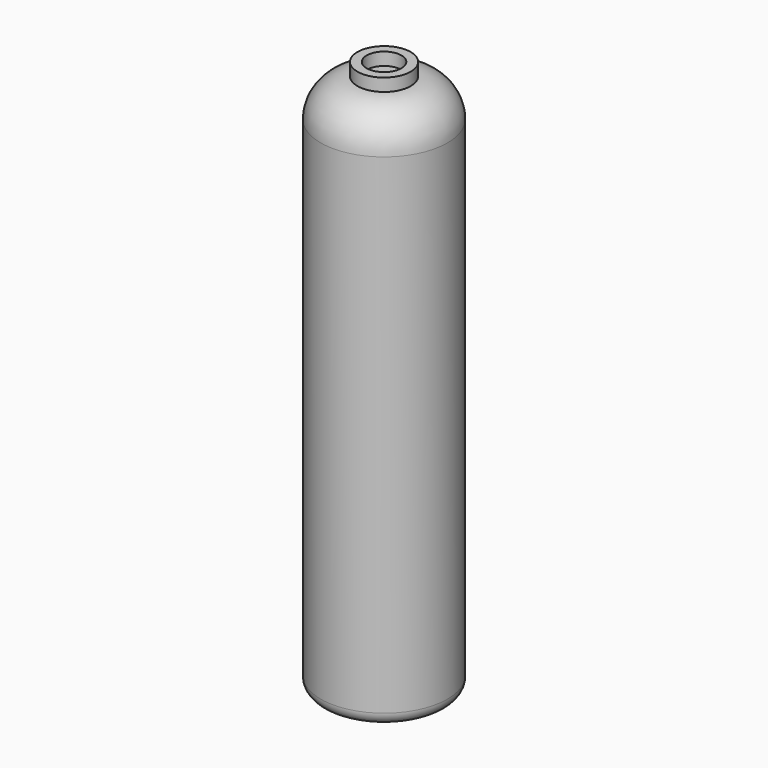
from build123d import *

# Parameters (mm, degrees)
F0_R     = 25
F1_DEPTH = 213
F2_R     = 15
F3_R     = 5
F4_R     = 10.5
F4_R_2   = 6.858
F5_DEPTH = 5
F6_R     = 6.858
F7_DEPTH = 15


with BuildPart() as f1:
    # F0 (on Top) → F1 (new body)
    with BuildSketch(Plane.XY):
        Circle(F0_R)
    extrude(amount=F1_DEPTH)

    # F2
    f2_edges = [f1.edges().sort_by_distance(p)[0] for p in [
        (-25, 0, 213),
    ]]
    fillet(f2_edges, radius=F2_R)

    # F3
    f3_edges = [f1.edges().sort_by_distance(p)[0] for p in [
        (-25, 0, 0),
    ]]
    fillet(f3_edges, radius=F3_R)

    # F6 (on face) → F7 (cut)
    with BuildSketch(Plane(origin=(0, 0, 0), x_dir=(1, 0, 0), z_dir=(0, 0, -1))):
        Circle(F6_R)
    extrude(amount=-F7_DEPTH, mode=Mode.SUBTRACT)


with BuildPart() as f5:
    # F4 (on face) → F5 (new body)
    with BuildSketch(Plane.XY.offset(213)):
        Circle(F4_R)
        Circle(F4_R_2, mode=Mode.SUBTRACT)
    extrude(amount=F5_DEPTH)


solid = Compound([f1.part, f5.part])
